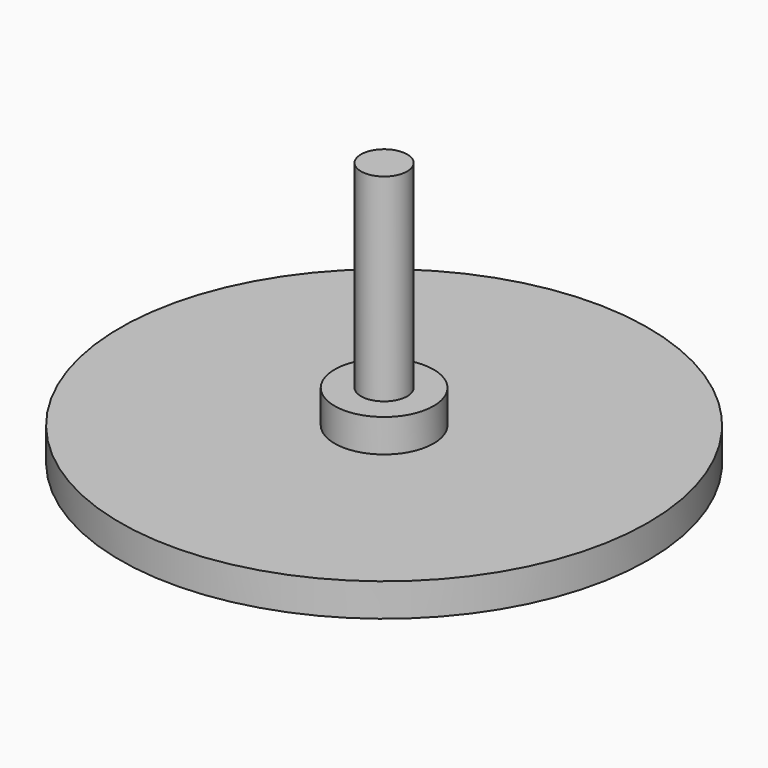
from build123d import *

# Parameters (mm, degrees)
CYLINDER002_R     = 3.5
CYLINDER002_DEPTH = 30
CYLINDER001_R     = 7.5
CYLINDER001_DEPTH = 5
CYLINDER_R        = 40
CYLINDER_DEPTH    = 5


with BuildPart() as cilindro:
    # Cylinder002 → Cylinder002 (new body)
    with BuildSketch(Plane.XY.offset(10)):
        Circle(CYLINDER002_R)
    extrude(amount=CYLINDER002_DEPTH)


with BuildPart() as obj1:
    # Cylinder001 → Cylinder001 (new body)
    with BuildSketch(Plane.XY.offset(5)):
        Circle(CYLINDER001_R)
    extrude(amount=CYLINDER001_DEPTH)


with BuildPart() as fusion001:
    # Cylinder → Cylinder (new body)
    with BuildSketch(Plane.XY):
        Circle(CYLINDER_R)
    extrude(amount=CYLINDER_DEPTH)

    # Fusion: union obj1
    add(obj1.part)

    # Fusion001: union Cilindro
    add(cilindro.part)


solid = fusion001.part
